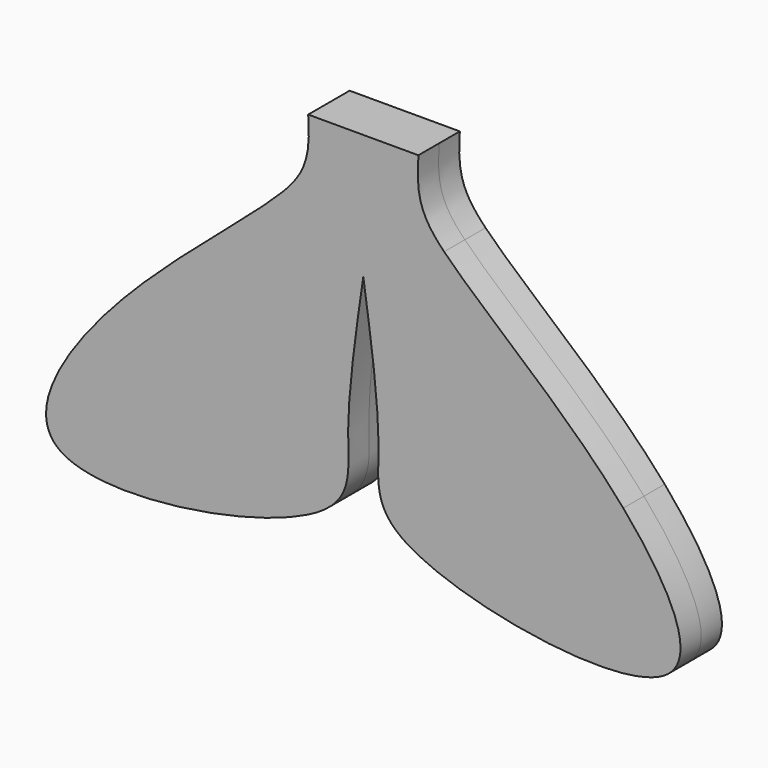
from build123d import *

# Parameters (mm, degrees)
F1_DEPTH      = 0.635
F1_DEPTH_BACK = 0.635


with BuildPart() as f1:
    # F0 (on Front) → F1 (new body, two sides)
    with BuildSketch(Plane.XZ) as f1_sk:
        with BuildLine():
            add(Edge.make_bspline(
                [(-6.3771307468, -14.1167607618), (-6.617399322, -15.0762999554), (-7.2185898962, -17.4772206472), (-3.3069535494, -16.8898635702), (-0.9586205706, -16.5372457815)],
                knots=[0, 0, 0, 0, 0.3996545462, 1, 1, 1, 1], degree=3))
            add(Edge.make_bspline(
                [(-6.3771307468, -14.1167607618), (-7.4718183739, -15.3817720297), (-9.3238332028, -18.6787786385), (-2.2601852255, -17.4681122254), (-0.9586205706, -16.5372457815)],
                knots=[0.6576067341, 0.6576067341, 0.6576067341, 0.6576067341, 0.7400931164, 0.8543701677, 0.8543701677, 0.8543701677, 0.8543701677], degree=3))
        make_face()
        with BuildLine():
            Line((0, -10.0098703516), (-1.9836870488, -10.0098703516))
            add(Edge.make_bspline(
                [(-1.9836870488, -10.0098703516), (-2.9098434501, -10.9646150261), (-4.9239411483, -12.43746781), (-6.3771307468, -14.1167607618)],
                knots=[0.5481066814, 0.5481066814, 0.5481066814, 0.5481066814, 0.6576067341, 0.6576067341, 0.6576067341, 0.6576067341], degree=3))
            add(Edge.make_bspline(
                [(-6.3771307468, -14.1167607618), (-6.617399322, -15.0762999554), (-7.2185898962, -17.4772206472), (-3.3069535494, -16.8898635702), (-0.9586205706, -16.5372457815)],
                knots=[0, 0, 0, 0, 0.3996545462, 1, 1, 1, 1], degree=3))
            add(Edge.make_bspline(
                [(-0.9586205706, -16.5372457815), (-0.2629100029, -16.039680317), (-0.5121268303, -14.6983006629), (-0.188091169, -12.4813717857), (0, -11.1942928744)],
                knots=[0.8543701677, 0.8543701677, 0.8543701677, 0.8543701677, 0.9154533815, 1, 1, 1, 1], degree=3))
            Line((0, -11.1942928744), (0, -10.0098703516))
        make_face()
        with BuildLine():
            Line((0, -8.1325810862), (-1.3513215818, -8.1325810862))
            add(Edge.make_bspline(
                [(-1.3513215818, -8.1325810862), (-1.278958424, -9.0846330536), (-1.452147523, -9.4619234488), (-1.9836870488, -10.0098703516)],
                knots=[0.4852624296, 0.4852624296, 0.4852624296, 0.4852624296, 0.5481066814, 0.5481066814, 0.5481066814, 0.5481066814], degree=3))
            Line((-1.9836870488, -10.0098703516), (0, -10.0098703516))
            Line((0, -10.0098703516), (0, -8.1325810862))
        make_face()
        with BuildLine():
            add(Edge.make_bspline(
                [(1.9836870488, -10.0098703516), (2.9098434501, -10.9646150261), (4.9239411483, -12.43746781), (6.3771307468, -14.1167607618)],
                knots=[0.5481066814, 0.5481066814, 0.5481066814, 0.5481066814, 0.6576067341, 0.6576067341, 0.6576067341, 0.6576067341], degree=3))
            Line((1.9836870488, -10.0098703516), (0, -10.0098703516))
            Line((0, -10.0098703516), (0, -11.1942928744))
            add(Edge.make_bspline(
                [(0.9586205706, -16.5372457815), (0.2629100029, -16.039680317), (0.5121268303, -14.6983006629), (0.188091169, -12.4813717857), (0, -11.1942928744)],
                knots=[0.8543701677, 0.8543701677, 0.8543701677, 0.8543701677, 0.9154533815, 1, 1, 1, 1], degree=3))
            add(Edge.make_bspline(
                [(6.3771307468, -14.1167607618), (6.617399322, -15.0762999554), (7.2185898962, -17.4772206472), (3.3069535494, -16.8898635702), (0.9586205706, -16.5372457815)],
                knots=[0, 0, 0, 0, 0.3996545462, 1, 1, 1, 1], degree=3))
        make_face()
        with BuildLine():
            add(Edge.make_bspline(
                [(1.3513215818, -8.1325810862), (1.278958424, -9.0846330536), (1.452147523, -9.4619234488), (1.9836870488, -10.0098703516)],
                knots=[0.4852624296, 0.4852624296, 0.4852624296, 0.4852624296, 0.5481066814, 0.5481066814, 0.5481066814, 0.5481066814], degree=3))
            Line((1.3513215818, -8.1325810862), (0, -8.1325810862))
            Line((0, -8.1325810862), (0, -10.0098703516))
            Line((0, -10.0098703516), (1.9836870488, -10.0098703516))
        make_face()
        with BuildLine():
            add(Edge.make_bspline(
                [(6.3771307468, -14.1167607618), (7.4718183739, -15.3817720297), (9.3238332028, -18.6787786385), (2.2601852255, -17.4681122254), (0.9586205706, -16.5372457815)],
                knots=[0.6576067341, 0.6576067341, 0.6576067341, 0.6576067341, 0.7400931164, 0.8543701677, 0.8543701677, 0.8543701677, 0.8543701677], degree=3))
            add(Edge.make_bspline(
                [(6.3771307468, -14.1167607618), (6.617399322, -15.0762999554), (7.2185898962, -17.4772206472), (3.3069535494, -16.8898635702), (0.9586205706, -16.5372457815)],
                knots=[0, 0, 0, 0, 0.3996545462, 1, 1, 1, 1], degree=3))
        make_face()
    extrude(amount=F1_DEPTH)
    extrude(f1_sk.sketch, amount=-F1_DEPTH_BACK)


solid = f1.part
